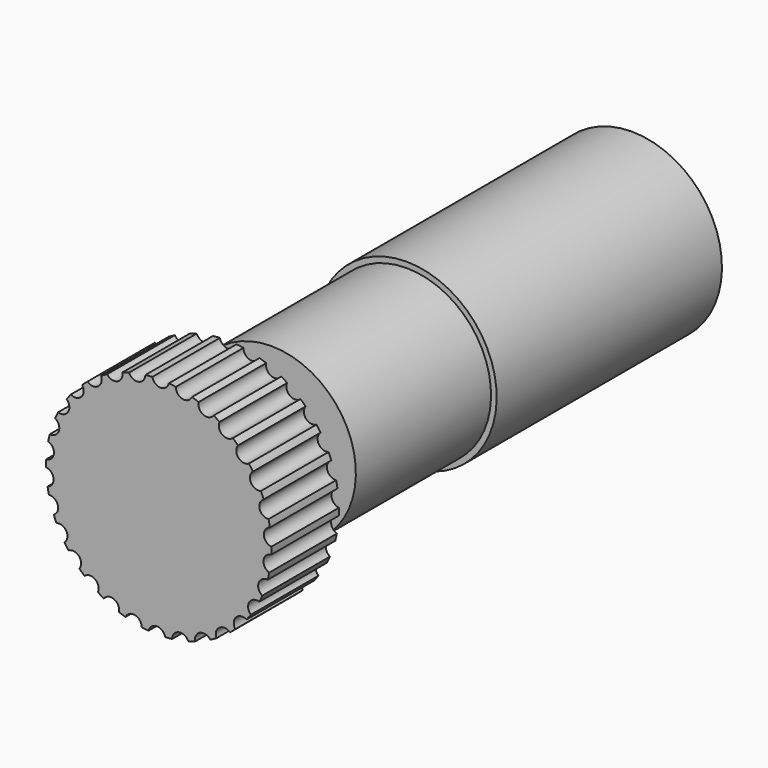
from build123d import *

# Parameters (mm, degrees)
F0_R     = 20
F0_R_2   = 3
F1_DEPTH = 15
F2_R     = 1.5
F3_DEPTH = 15
F4_COUNT = 30


with BuildPart() as f1:
    # F0 (on Front) → F1 (new body)
    with BuildSketch(Plane.XZ):
        Circle(F0_R)
        Circle(F0_R_2, mode=Mode.SUBTRACT)
    extrude(amount=F1_DEPTH)


with BuildPart() as f3:
    # F2 (on face) → F3 (new body, through all)
    with BuildSketch(Plane.XZ.offset(15)):
        with Locations((20.171481, 1.781533)):
            Circle(F2_R)
    extrude(amount=-F3_DEPTH)


with BuildPart() as f4_1:
    # F4: instance of F3
    add(f3.part.rotate(Axis((0, 0, 0), (0, 1, 0)), 1 * 360 / F4_COUNT))


with BuildPart() as f4_2:
    # F4: instance of F3
    add(f3.part.rotate(Axis((0, 0, 0), (0, 1, 0)), 2 * 360 / F4_COUNT))


with BuildPart() as f4_3:
    # F4: instance of F3
    add(f3.part.rotate(Axis((0, 0, 0), (0, 1, 0)), 3 * 360 / F4_COUNT))


with BuildPart() as f4_4:
    # F4: instance of F3
    add(f3.part.rotate(Axis((0, 0, 0), (0, 1, 0)), 4 * 360 / F4_COUNT))


with BuildPart() as f4_5:
    # F4: instance of F3
    add(f3.part.rotate(Axis((0, 0, 0), (0, 1, 0)), 5 * 360 / F4_COUNT))


with BuildPart() as f4_6:
    # F4: instance of F3
    add(f3.part.rotate(Axis((0, 0, 0), (0, 1, 0)), 6 * 360 / F4_COUNT))


with BuildPart() as f4_7:
    # F4: instance of F3
    add(f3.part.rotate(Axis((0, 0, 0), (0, 1, 0)), 7 * 360 / F4_COUNT))


with BuildPart() as f4_8:
    # F4: instance of F3
    add(f3.part.rotate(Axis((0, 0, 0), (0, 1, 0)), 8 * 360 / F4_COUNT))


with BuildPart() as f4_9:
    # F4: instance of F3
    add(f3.part.rotate(Axis((0, 0, 0), (0, 1, 0)), 9 * 360 / F4_COUNT))


with BuildPart() as f4_10:
    # F4: instance of F3
    add(f3.part.rotate(Axis((0, 0, 0), (0, 1, 0)), 10 * 360 / F4_COUNT))


with BuildPart() as f4_11:
    # F4: instance of F3
    add(f3.part.rotate(Axis((0, 0, 0), (0, 1, 0)), 11 * 360 / F4_COUNT))


with BuildPart() as f4_12:
    # F4: instance of F3
    add(f3.part.rotate(Axis((0, 0, 0), (0, 1, 0)), 12 * 360 / F4_COUNT))


with BuildPart() as f4_13:
    # F4: instance of F3
    add(f3.part.rotate(Axis((0, 0, 0), (0, 1, 0)), 13 * 360 / F4_COUNT))


with BuildPart() as f4_14:
    # F4: instance of F3
    add(f3.part.rotate(Axis((0, 0, 0), (0, 1, 0)), 14 * 360 / F4_COUNT))


with BuildPart() as f4_15:
    # F4: instance of F3
    add(f3.part.rotate(Axis((0, 0, 0), (0, 1, 0)), 15 * 360 / F4_COUNT))


with BuildPart() as f4_16:
    # F4: instance of F3
    add(f3.part.rotate(Axis((0, 0, 0), (0, 1, 0)), 16 * 360 / F4_COUNT))


with BuildPart() as f4_17:
    # F4: instance of F3
    add(f3.part.rotate(Axis((0, 0, 0), (0, 1, 0)), 17 * 360 / F4_COUNT))


with BuildPart() as f4_18:
    # F4: instance of F3
    add(f3.part.rotate(Axis((0, 0, 0), (0, 1, 0)), 18 * 360 / F4_COUNT))


with BuildPart() as f4_19:
    # F4: instance of F3
    add(f3.part.rotate(Axis((0, 0, 0), (0, 1, 0)), 19 * 360 / F4_COUNT))


with BuildPart() as f4_20:
    # F4: instance of F3
    add(f3.part.rotate(Axis((0, 0, 0), (0, 1, 0)), 20 * 360 / F4_COUNT))


with BuildPart() as f4_21:
    # F4: instance of F3
    add(f3.part.rotate(Axis((0, 0, 0), (0, 1, 0)), 21 * 360 / F4_COUNT))


with BuildPart() as f4_22:
    # F4: instance of F3
    add(f3.part.rotate(Axis((0, 0, 0), (0, 1, 0)), 22 * 360 / F4_COUNT))


with BuildPart() as f4_23:
    # F4: instance of F3
    add(f3.part.rotate(Axis((0, 0, 0), (0, 1, 0)), 23 * 360 / F4_COUNT))


with BuildPart() as f4_24:
    # F4: instance of F3
    add(f3.part.rotate(Axis((0, 0, 0), (0, 1, 0)), 24 * 360 / F4_COUNT))


with BuildPart() as f4_25:
    # F4: instance of F3
    add(f3.part.rotate(Axis((0, 0, 0), (0, 1, 0)), 25 * 360 / F4_COUNT))


with BuildPart() as f4_26:
    # F4: instance of F3
    add(f3.part.rotate(Axis((0, 0, 0), (0, 1, 0)), 26 * 360 / F4_COUNT))


with BuildPart() as f4_27:
    # F4: instance of F3
    add(f3.part.rotate(Axis((0, 0, 0), (0, 1, 0)), 27 * 360 / F4_COUNT))


with BuildPart() as f4_28:
    # F4: instance of F3
    add(f3.part.rotate(Axis((0, 0, 0), (0, 1, 0)), 28 * 360 / F4_COUNT))


with BuildPart() as f4_29:
    # F4: instance of F3
    add(f3.part.rotate(Axis((0, 0, 0), (0, 1, 0)), 29 * 360 / F4_COUNT))


with BuildPart() as f1_1:
    add(f1.part)

    # F5: cut F4_15, F4_16, F4_17, F4_18, F4_19, F4_20, F4_21, F4_23, F4_25, F4_22, F4_24, F4_26, F4_27, F4_28, F4_29, F3, F4_1, F4_2, F4_3, F4_4, F4_5, F4_6, F4_7, F4_8, F4_9, F4_10, F4_11, F4_12, F4_13, F4_14
    add(f4_15.part, mode=Mode.SUBTRACT)
    add(f4_16.part, mode=Mode.SUBTRACT)
    add(f4_17.part, mode=Mode.SUBTRACT)
    add(f4_18.part, mode=Mode.SUBTRACT)
    add(f4_19.part, mode=Mode.SUBTRACT)
    add(f4_20.part, mode=Mode.SUBTRACT)
    add(f4_21.part, mode=Mode.SUBTRACT)
    add(f4_23.part, mode=Mode.SUBTRACT)
    add(f4_25.part, mode=Mode.SUBTRACT)
    add(f4_22.part, mode=Mode.SUBTRACT)
    add(f4_24.part, mode=Mode.SUBTRACT)
    add(f4_26.part, mode=Mode.SUBTRACT)
    add(f4_27.part, mode=Mode.SUBTRACT)
    add(f4_28.part, mode=Mode.SUBTRACT)
    add(f4_29.part, mode=Mode.SUBTRACT)
    add(f3.part, mode=Mode.SUBTRACT)
    add(f4_1.part, mode=Mode.SUBTRACT)
    add(f4_2.part, mode=Mode.SUBTRACT)
    add(f4_3.part, mode=Mode.SUBTRACT)
    add(f4_4.part, mode=Mode.SUBTRACT)
    add(f4_5.part, mode=Mode.SUBTRACT)
    add(f4_6.part, mode=Mode.SUBTRACT)
    add(f4_7.part, mode=Mode.SUBTRACT)
    add(f4_8.part, mode=Mode.SUBTRACT)
    add(f4_9.part, mode=Mode.SUBTRACT)
    add(f4_10.part, mode=Mode.SUBTRACT)
    add(f4_11.part, mode=Mode.SUBTRACT)
    add(f4_12.part, mode=Mode.SUBTRACT)
    add(f4_13.part, mode=Mode.SUBTRACT)
    add(f4_14.part, mode=Mode.SUBTRACT)

    # F6 (on Right) → F7 (revolve)
    with BuildSketch(Plane.YZ):
        Polygon((-15, 3), (-15, 0), (90, 0), (90, 16), (40, 16), (40, 15), (10, 15), (10, 3), align=None)
    revolve(axis=Axis((0, 37.5, 0), (0, 1, 0)))


solid = f1_1.part
